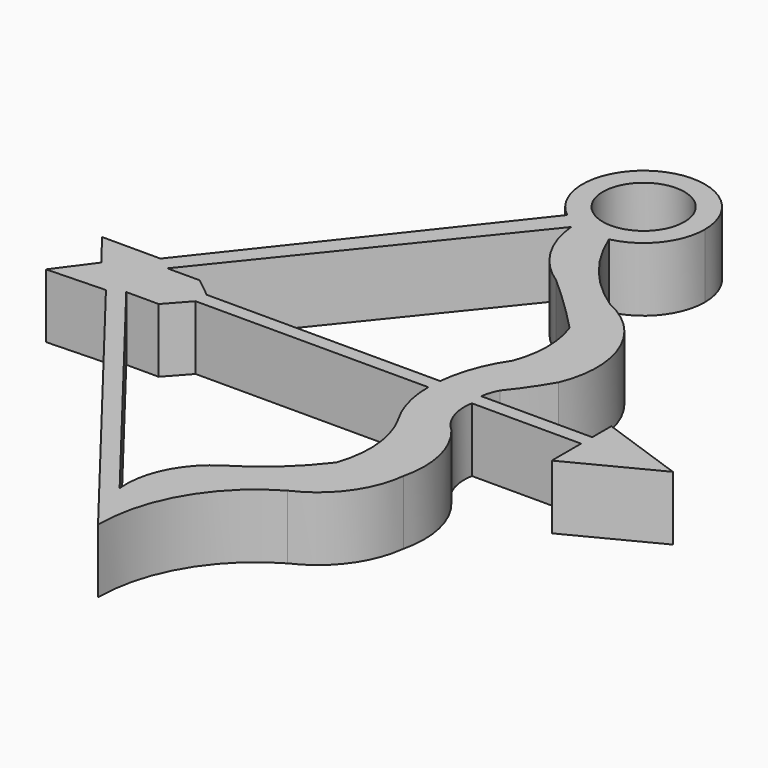
from build123d import *

# Parameters (mm, degrees)
F1_DEPTH = 5


with BuildPart() as f1:
    # F0 (on Top) → F1 (new body)
    with BuildSketch(Plane.XY):
        with BuildLine():
            Line((10.0959362462, -2.78047094), (1.4312440762, -2.78047094))
            ThreePointArc((1.4312440762, -2.78047094), (1.5830909584, -2.1094863342), (1.8523323815, -1.4764090301))
            ThreePointArc((1.8523323815, -1.4764090301), (2.9684648214, 0.0124575871), (3.9639719762, 1.5845393064))
            ThreePointArc((3.9639719762, 1.5845393064), (4.0332112114, 7.3995444871), (0, 11.5890894085))
            ThreePointArc((0, 11.5890894085), (-3.2233993412, 14.5083140646), (-5.432532567, 18.2542326832))
            ThreePointArc((-5.432532567, 18.2542326832), (-7.5280154085, 18.2652916974), (-9.4174538466, 19.1714887123))
            Line((-9.4174538466, 19.1714887123), (-25.1873922735, -0.8087580443))
            Line((-25.1873922735, -0.8087580443), (-29.7418348491, -0.8087580443))
            Line((-29.7418348491, -0.8087580443), (-27.6788328688, -3.4717018326))
            Line((-27.6788328688, -3.4717018326), (-29.7418348491, -6.276179105))
            Line((-29.7418348491, -6.276179105), (-25.1873922735, -6.126286524))
            Line((-25.1873922735, -6.126286524), (-6.2213586643, -30.6078342255))
            ThreePointArc((-6.2213586643, -30.6078342255), (-4.560580683, -24.4047682191), (0, -19.8840033263))
            ThreePointArc((0, -19.8840033263), (2.9344857311, -17.5032226211), (4.3082083575, -13.9829656109))
            ThreePointArc((4.3082083575, -13.9829656109), (4.3382996894, -10.5286068191), (2.8194261249, -7.4259429239))
            ThreePointArc((2.8194261249, -7.4259429239), (1.7258578768, -5.8110212349), (1.5688576968, -3.8670010399))
            Line((1.5688576968, -3.8670010399), (10.0959362462, -3.8670010399))
            Line((10.0959362462, -3.8670010399), (10.0959362462, -6.7304023542))
            Line((10.0959362462, -6.7304023542), (16.7936626822, -3.2774773426))
            Line((16.7936626822, -3.2774773426), (10.0959362462, -0.9193822043))
            Line((10.0959362462, -0.9193822043), (10.0959362462, -2.78047094))
        make_face()
        with BuildLine():
            Line((-19.9981296913, -3.8670010399), (-1.8312596949, -3.8670010399))
            ThreePointArc((-1.8312596949, -3.8670010399), (-1.5348622468, -6.1518997781), (-0.6402418367, -8.2751680166))
            ThreePointArc((-0.6402418367, -8.2751680166), (0.4196320306, -11.6301861478), (0, -15.1235209778))
            ThreePointArc((0, -15.1235209778), (-2.3601430039, -17.693927442), (-5.1661096513, -19.7684913874))
            ThreePointArc((-5.1661096513, -19.7684913874), (-7.5548118385, -22.4755877402), (-8.1995874643, -26.0278452188))
            Line((-8.1995874643, -26.0278452188), (-24.0549614981, -5.5615683086))
            Line((-24.0549614981, -5.5615683086), (-21.5238109231, -5.5615683086))
            Line((-21.5238109231, -5.5615683086), (-19.9981296913, -3.8670010399))
        make_face(mode=Mode.SUBTRACT)
        with BuildLine():
            Line((-24.0549614981, -1.5521801542), (-8.2457400858, 18.0847272277))
            ThreePointArc((-8.2457400858, 18.0847272277), (-7.1001406369, 14.6380731879), (-4.5706010424, 12.0316864923))
            ThreePointArc((-4.5706010424, 12.0316864923), (-2.2376299553, 9.8777463399), (0, 7.6249204576))
            ThreePointArc((0, 7.6249204576), (0.4957247926, 4.8558037961), (0, 2.0866871346))
            ThreePointArc((0, 2.0866871346), (-1.192703618, -0.235194817), (-1.7717089504, -2.78047094))
            Line((-1.7717089504, -2.78047094), (-19.9981296913, -2.78047094))
            Line((-19.9981296913, -2.78047094), (-21.5238109231, -1.5521801542))
            Line((-21.5238109231, -1.5521801542), (-24.0549614981, -1.5521801542))
        make_face(mode=Mode.SUBTRACT)
        with BuildLine():
            ThreePointArc((-9.4174538466, 19.1714887123), (-7.5280154085, 18.2652916974), (-5.432532567, 18.2542326832))
            ThreePointArc((-5.432532567, 18.2542326832), (-5.7124353371, 19.0118834924), (-5.9495776619, 19.7839870004))
            ThreePointArc((-5.9495776619, 19.7839870004), (-7.2554368064, 19.8456632442), (-8.4261755789, 20.4274216053))
            Line((-8.4261755789, 20.4274216053), (-9.4174538466, 19.1714887123))
        make_face()
        with BuildLine():
            ThreePointArc((-5.9495776619, 19.7839870004), (-5.7124353371, 19.0118834924), (-5.432532567, 18.2542326832))
            ThreePointArc((-5.432532567, 18.2542326832), (-2.7310807222, 19.9271432303), (-1.6750899376, 22.9240341578))
            ThreePointArc((-1.6750899376, 22.9240341578), (-8.54069584, 27.2259464134), (-9.4174538466, 19.1714887123))
            Line((-9.4174538466, 19.1714887123), (-8.4261755789, 20.4274216053))
            ThreePointArc((-8.4261755789, 20.4274216053), (-7.842858181, 25.7861469003), (-3.2750899489, 22.9240341578))
            ThreePointArc((-3.2750899489, 22.9240341578), (-4.0343323192, 20.8617065481), (-5.9495776619, 19.7839870004))
        make_face()
    extrude(amount=F1_DEPTH)


solid = f1.part
